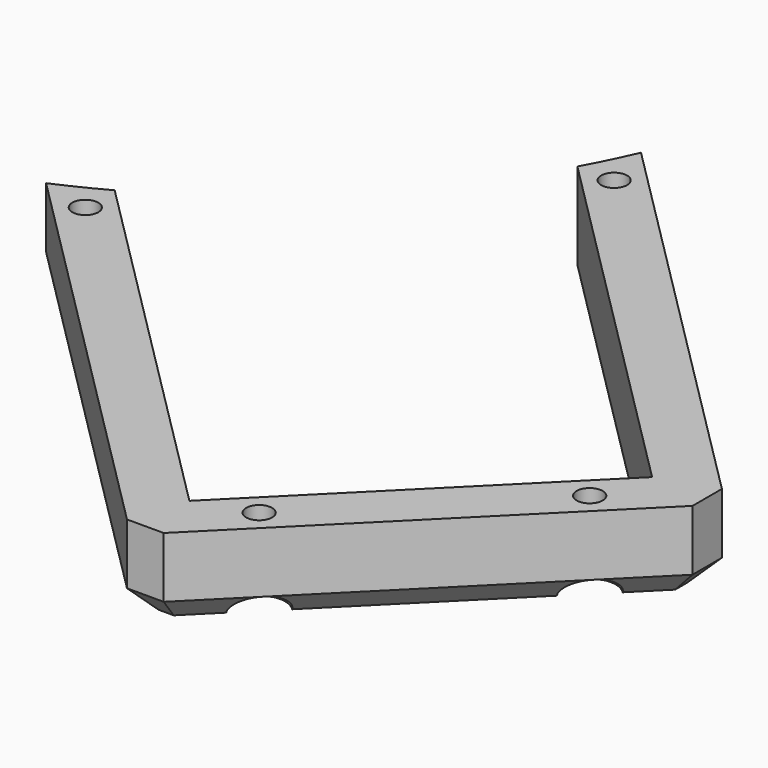
from build123d import *

# Parameters (mm, degrees)
CYLINDER1994_R               = 1.5
CYLINDER1994_DEPTH           = 60
CYLINDER1991_R               = 1.5
CYLINDER1991_DEPTH           = 60
CYLINDER1992_R               = 1.5
CYLINDER1992_DEPTH           = 60
CYLINDER1993_R               = 1.5
CYLINDER1993_DEPTH           = 60
COMPOUND1074_PLACEMENT_ANGLE = 225
CYLINDER1990_R               = 3
CYLINDER1990_DEPTH           = 3
CYLINDER1987_R               = 3
CYLINDER1987_DEPTH           = 3
CYLINDER1988_R               = 3
CYLINDER1988_DEPTH           = 3
CYLINDER1989_R               = 3
CYLINDER1989_DEPTH           = 3
COMPOUND1075_PLACEMENT_ANGLE = 225
CYLINDER1986_R               = 74
CYLINDER1986_DEPTH           = 40
BOX985_W                     = 42
BOX985_H                     = 72
BOX985_DEPTH                 = 50
COMPOUND1072_PLACEMENT_ANGLE = 225
BOX986_W                     = 54
BOX986_H                     = 78
BOX986_DEPTH                 = 10
COMPOUND1073_PLACEMENT_ANGLE = 225
CHAMFER076_SIZE              = 3
CHAMFER077_SIZE              = 3


with BuildPart() as obj1:
    # Cylinder1994 → Cylinder1994 (new body)
    with BuildSketch(Plane(origin=(-24, 74, -80), x_dir=(1, 0, 0), z_dir=(0, 0, 1))):
        Circle(CYLINDER1994_R)
    extrude(amount=CYLINDER1994_DEPTH)


with BuildPart() as obj2:
    # Cylinder1991 → Cylinder1991 (new body)
    with BuildSketch(Plane(origin=(-15, 135, -80), x_dir=(1, 0, 0), z_dir=(0, 0, 1))):
        Circle(CYLINDER1991_R)
    extrude(amount=CYLINDER1991_DEPTH)


with BuildPart() as obj3:
    # Cylinder1992 → Cylinder1992 (new body)
    with BuildSketch(Plane(origin=(15, 135, -80), x_dir=(1, 0, 0), z_dir=(0, 0, 1))):
        Circle(CYLINDER1992_R)
    extrude(amount=CYLINDER1992_DEPTH)


with BuildPart() as compound1074:
    # Cylinder1993 → Cylinder1993 (new body)
    with BuildSketch(Plane(origin=(24, 74, -80), x_dir=(1, 0, 0), z_dir=(0, 0, 1))):
        Circle(CYLINDER1993_R)
    extrude(amount=CYLINDER1993_DEPTH)

    # Compound1074: union obj1, obj2, obj3
    add(obj1.part)
    add(obj2.part)
    add(obj3.part)


with BuildPart() as compound1074_1:
    # Compound1074 placement: moved
    add(compound1074.part.moved(Location((0, 0, 100))).rotate(Axis((0, 0, 100), (0, 0, 1)), COMPOUND1074_PLACEMENT_ANGLE))


with BuildPart() as obj4:
    # Cylinder1990 → Cylinder1990 (new body)
    with BuildSketch(Plane(origin=(-24, 74, -80), x_dir=(1, 0, 0), z_dir=(0, 0, 1))):
        Circle(CYLINDER1990_R)
    extrude(amount=CYLINDER1990_DEPTH)


with BuildPart() as obj5:
    # Cylinder1987 → Cylinder1987 (new body)
    with BuildSketch(Plane(origin=(-15, 135, -80), x_dir=(1, 0, 0), z_dir=(0, 0, 1))):
        Circle(CYLINDER1987_R)
    extrude(amount=CYLINDER1987_DEPTH)


with BuildPart() as obj6:
    # Cylinder1988 → Cylinder1988 (new body)
    with BuildSketch(Plane(origin=(15, 135, -80), x_dir=(1, 0, 0), z_dir=(0, 0, 1))):
        Circle(CYLINDER1988_R)
    extrude(amount=CYLINDER1988_DEPTH)


with BuildPart() as compound1075:
    # Cylinder1989 → Cylinder1989 (new body)
    with BuildSketch(Plane(origin=(24, 74, -80), x_dir=(1, 0, 0), z_dir=(0, 0, 1))):
        Circle(CYLINDER1989_R)
    extrude(amount=CYLINDER1989_DEPTH)

    # Compound1075: union obj4, obj5, obj6
    add(obj4.part)
    add(obj5.part)
    add(obj6.part)


with BuildPart() as compound1075_1:
    # Compound1075 placement: moved
    add(compound1075.part.moved(Location((0, 0, 135))).rotate(Axis((0, 0, 135), (0, 0, 1)), COMPOUND1075_PLACEMENT_ANGLE))


with BuildPart() as obj7:
    # Cylinder1986 → Cylinder1986 (new body)
    with BuildSketch(Plane.XY.offset(44)):
        Circle(CYLINDER1986_R)
    extrude(amount=CYLINDER1986_DEPTH)


with BuildPart() as compound1072:
    # Box985 → Box985 (new body)
    with BuildSketch(Plane(origin=(-21.001071, 60.005081, 31), x_dir=(1, 0, 0), z_dir=(0, 0, 1))):
        with Locations((21, 36)):
            Rectangle(BOX985_W, BOX985_H)
    extrude(amount=BOX985_DEPTH)


with BuildPart() as compound1072_1:
    # Compound1072 placement: moved
    add(compound1072.part.rotate(Axis((0, 0, 0), (0, 0, 1)), COMPOUND1072_PLACEMENT_ANGLE))


with BuildPart() as cut676:
    # Box986 → Box986 (new body)
    with BuildSketch(Plane(origin=(-27.004408, 59.99801, 75), x_dir=(1, 0, 0), z_dir=(0, 0, 1))):
        with Locations((27, 39)):
            Rectangle(BOX986_W, BOX986_H)
    extrude(amount=BOX986_DEPTH)


with BuildPart() as cut676_1:
    # Compound1073 placement: moved
    add(cut676.part.moved(Location((0, 0, -20))).rotate(Axis((0, 0, -20), (0, 0, 1)), COMPOUND1073_PLACEMENT_ANGLE))

    # Cut670: cut Compound1072
    add(compound1072_1.part, mode=Mode.SUBTRACT)

    # Cut671: cut obj7
    add(obj7.part, mode=Mode.SUBTRACT)

    # Chamfer076
    chamfer076_edges = [cut676_1.edges().sort_by_distance(p)[0] for p in [
        (116.674329, -78.484329, 60),
        (78.490563, -116.668095, 60),
    ]]
    chamfer(chamfer076_edges, length=CHAMFER076_SIZE)

    # Chamfer077
    chamfer077_edges = [cut676_1.edges().sort_by_distance(p)[0] for p in [
        (91.182683, -52.992683, 55),
        (114.553009, -78.484329, 55),
        (53.000139, -91.177671, 55),
        (78.490563, -114.546775, 55),
        (97.582446, -97.576212, 55),
    ]]
    chamfer(chamfer077_edges, length=CHAMFER077_SIZE)

    # Cut675: cut Compound1075
    add(compound1075_1.part, mode=Mode.SUBTRACT)

    # Cut676: cut Compound1074
    add(compound1074_1.part, mode=Mode.SUBTRACT)


solid = cut676_1.part
